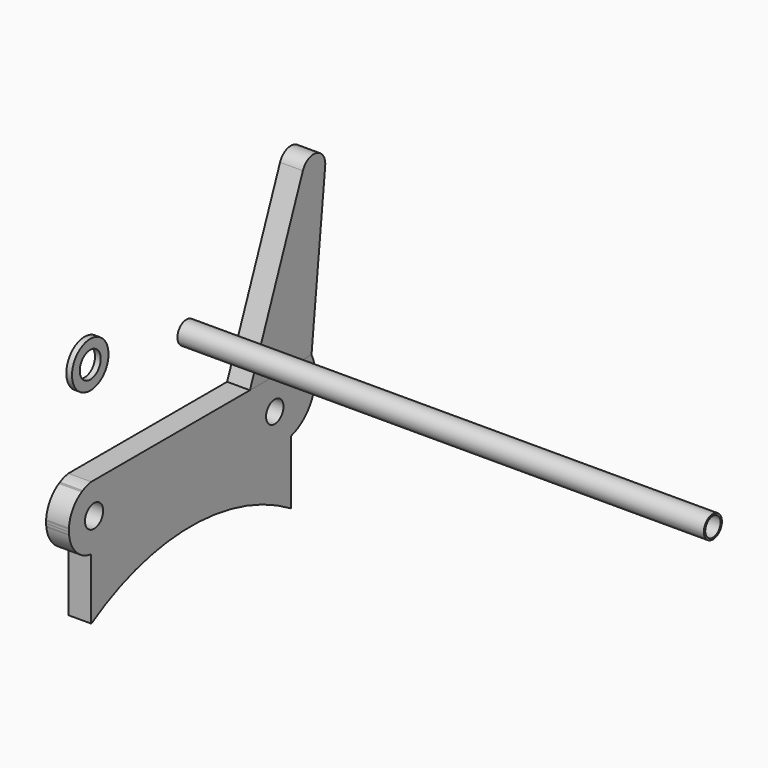
from build123d import *

# Parameters (mm, degrees)
F1_DEPTH  = 50.8
F3_DEPTH  = 50.8
F4_R      = 25.4
F5_DEPTH  = 50.801
F6_R      = 50.8
F6_R_2    = 29.21
F7_DEPTH  = 12.7
F8_R      = 25.146
F8_R_2    = 21.336
F9_DEPTH  = 1172.753215
F11_DEPTH = 50.8
F12_R     = 25.280586
F12_R_2   = 24.259584
F13_DEPTH = 50.801


with BuildPart() as f1:
    # F0 (on Right) → F1 (new body)
    with BuildSketch(Plane.YZ):
        with BuildLine():
            Line((113.172458, 0), (0, 0))
            Line((0, 0), (-320.858896, 0))
            ThreePointArc((-320.858896, 0), (-390.983701, -70.124805), (-320.858896, -140.24961))
            Line((-320.858896, -140.24961), (208.70465, -140.24961))
            ThreePointArc((208.70465, -140.24961), (283.753727, -90.20157), (284.674048, 0))
            Line((284.674048, 0), (322.845772, 355.128451))
            ThreePointArc((322.845772, 355.128451), (298.456343, 389.993239), (260.610521, 370.548666))
            Line((260.610521, 370.548666), (113.172458, 0))
        make_face()
    extrude(amount=F1_DEPTH)

    # F2 (on Right) → F3 (join)
    with BuildSketch(Plane.YZ):
        with BuildLine():
            Line((-327.773929, -120.990053), (-327.773929, -142.130882))
            Line((-327.773929, -142.130882), (-327.773929, -278.005511))
            ThreePointArc((-327.773929, -278.005511), (-50.308123, -199.827734), (227.157682, -278.005511))
            Line((227.157682, -278.005511), (227.157682, -120.990053))
            Line((227.157682, -120.990053), (-327.773929, -120.990053))
        make_face()
    extrude(amount=F3_DEPTH)

    # F4 (on face) → F5 (cut, through all)
    with BuildSketch(Plane.YZ.offset(50.8)):
        with Locations((-320.858896, -70.124805)):
            Circle(F4_R)
        with Locations((182.443417, -70.124805)):
            Circle(F4_R)
    extrude(amount=-F5_DEPTH, mode=Mode.SUBTRACT)


with BuildPart() as f7:
    # F6 (on Right) → F7 (new body)
    with BuildSketch(Plane.YZ):
        with Locations((-283.83261, 199.014515)):
            Circle(F6_R)
        with Locations((-283.83261, 199.014515)):
            Circle(F6_R_2, mode=Mode.SUBTRACT)
    extrude(amount=F7_DEPTH)


with BuildPart() as f9:
    # F8 (on Right) → F9 (new body)
    with BuildSketch(Plane.YZ):
        with Locations((0, 143.168248)):
            Circle(F8_R)
        with Locations((0, 143.168248)):
            Circle(F8_R_2, mode=Mode.SUBTRACT)
        with Locations((0, 143.168248)):
            Circle(F8_R)
        with Locations((0, 143.168248)):
            Circle(F8_R_2, mode=Mode.SUBTRACT)
    extrude(amount=F9_DEPTH)


with BuildPart() as f11:
    # F10 (on Right) → F11 (new body)
    with BuildSketch(Plane.YZ):
        with BuildLine():
            Line((282.737374, 0), (0, 0))
            Line((0, 0), (-328.861833, 0))
            ThreePointArc((-328.861833, 0), (-390.968115, -71.049184), (-328.861833, -142.098367))
            Line((-328.861833, -142.098367), (-328.861833, -278.078973))
            ThreePointArc((-328.861833, -278.078973), (-50.828099, -199.875837), (227.205634, -278.078973))
            Line((227.205634, -278.078973), (227.205634, -136.528537))
            ThreePointArc((227.205634, -136.528537), (288.653926, -81.964287), (282.737374, 0))
        make_face()
    extrude(amount=F11_DEPTH)

    # F12 (on face) → F13 (cut, through all)
    with BuildSketch(Plane.YZ.offset(50.8)):
        with Locations((-320.858896, -70.124805)):
            Circle(F12_R)
        with Locations((182.443417, -70.124805)):
            Circle(F12_R_2)
    extrude(amount=-F13_DEPTH, mode=Mode.SUBTRACT)


solid = Compound([f1.part, f7.part, f9.part, f11.part])
